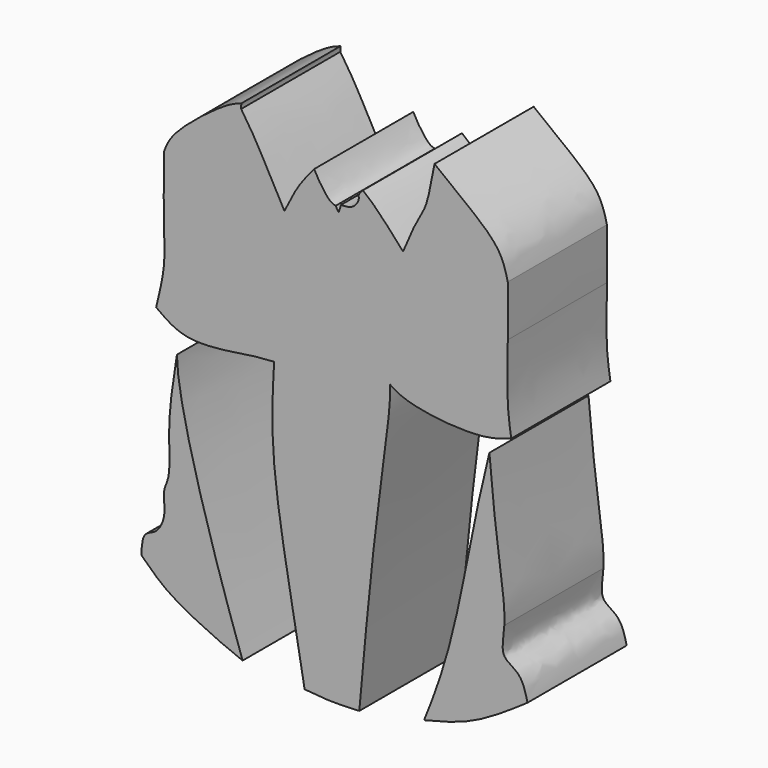
from build123d import *

# Parameters (mm, degrees)
F1_DEPTH = 6.604


with BuildPart() as f1:
    # F0 (on Front) → F1 (new body)
    with BuildSketch(Plane.XZ):
        with BuildLine():
            add(Edge.make_bspline(
                [(1.1497032875, -23.3825250299), (1.196561232, -23.482640341), (1.2503133009, -23.5679166675), (1.3041357743, -23.6533004791)],
                knots=[0.9300041209, 0.9300041209, 0.9300041209, 0.9300041209, 1, 1, 1, 1], degree=3))
            add(Edge.make_bspline(
                [(0, -22.0348257571), (0.0812285979, -22.1912839001), (0.2631810605, -22.5423085387), (0.8188425061, -23.3060281912), (1.0602767296, -23.3623532218), (1.1497032875, -23.3825250299)],
                knots=[0, 0, 0, 0, 0.3369494365, 0.7561140095, 1, 1, 1, 1], degree=3))
            add(Edge.make_bspline(
                [(-1.5849161427, -24.5154779404), (-1.345206038, -24.0256383181), (-0.884584287, -23.0843730979), (-0.2867283861, -22.3750251249), (0, -22.0348257571)],
                knots=[0, 0, 0, 0, 0.5204055264, 1, 1, 1, 1], degree=3))
            add(Edge.make_bspline(
                [(-3.8910638541, -20.4827003181), (-3.6505175345, -20.8468328503), (-3.1674718148, -21.5780544355), (-2.5515288628, -22.7451588248), (-1.9298877508, -23.8836738897), (-1.5849161427, -24.5154779404)],
                knots=[0, 0, 0, 0, 0.3062678611, 0.6150224191, 1, 1, 1, 1], degree=3))
            add(Edge.make_bspline(
                [(-3.8755044345, -20.2104461632), (-3.8944603794, -20.30795767), (-3.8927621167, -20.3953289941), (-3.8910638541, -20.4827003181)],
                knots=[0.8433644561, 0.8433644561, 0.8433644561, 0.8433644561, 1, 1, 1, 1], degree=3))
            add(Edge.make_bspline(
                [(-3.8755044345, -20.2104461632), (-4.1044836782, -20.2897716629), (-4.7764963733, -20.5224047591), (-7.5966979576, -22.691586935), (-7.8942564645, -23.5186829688), (-8.0032804981, -23.8217506558)],
                knots=[0, 0, 0, 0, 0.2467581374, 0.7239895384, 1, 1, 1, 1], degree=3))
            add(Edge.make_bspline(
                [(-8.0032804981, -23.8217506558), (-8.0161008013, -25.0803462224), (-8.0289211045, -26.3389417891), (-8.0032804981, -27.2946506739)],
                knots=[0, 0, 0, 0, 0.3971402404, 0.3971402404, 0.3971402404, 0.3971402404], degree=3))
            add(Edge.make_bspline(
                [(-8.0032804981, -27.2946506739), (-7.9846598182, -27.9887040412), (-7.9033379715, -29.1055696173), (-8.2433465749, -30.5234976757), (-8.4206936881, -31.2630832195)],
                knots=[0.3971402404, 0.3971402404, 0.3971402404, 0.3971402404, 0.6855507862, 1, 1, 1, 1], degree=3))
            add(Edge.make_bspline(
                [(-8.4206936881, -31.2630832195), (-8.0707479073, -31.5229253729), (-7.7208021265, -31.7827675263), (-7.280498254, -31.9563828779)],
                knots=[0, 0, 0, 0, 0.2264662718, 0.2264662718, 0.2264662718, 0.2264662718], degree=3))
            add(Edge.make_bspline(
                [(-7.280498254, -31.9563828779), (-7.087001058, -32.0326803756), (-5.9748657581, -32.3471325273), (-3.3059866082, -31.8284608794), (-2.4493561435, -31.7871199179), (-2.1330976353, -31.7718572915)],
                knots=[0.2264662718, 0.2264662718, 0.2264662718, 0.2264662718, 0.3259897858, 0.7511628717, 1, 1, 1, 1], degree=3))
            add(Edge.make_bspline(
                [(-2.1330976353, -31.7718572915), (-2.2152386976, -33.2202060273), (-2.404694986, -36.5607858579), (-1.086099516, -43.2058424148), (-0.6236220742, -46.0203927281), (-0.5086617392, -46.6130788646)],
                knots=[0, 0, 0, 0, 0.2604019918, 0.6006106265, 0.706181104, 0.706181104, 0.706181104, 0.706181104], degree=3))
            add(Edge.make_bspline(
                [(-0.5086617392, -46.6130788646), (-0.054032576, -46.6595245839), (0.8828265858, -46.7535402431), (1.8873066503, -46.7039721098), (2.4071369795, -46.6789720867)],
                knots=[0, 0, 0, 0, 0.4877338937, 1, 1, 1, 1], degree=3))
            add(Edge.make_bspline(
                [(4.0371152572, -30.8283232152), (4.0498449975, -31.0367026744), (4.0973883752, -31.822476947), (3.2058039921, -37.8111831479), (2.6809233611, -43.5650242157), (2.4071369795, -46.6789720867)],
                knots=[0, 0, 0, 0, 0.1368819039, 0.5084777049, 0.9418583296, 0.9418583296, 0.9418583296, 0.9418583296], degree=3))
            Line((4.0371152572, -30.8283232152), (4.0371152572, -30.8240728969))
            add(Edge.make_bspline(
                [(4.0371152572, -30.8240728969), (4.2589618279, -30.9802818339), (5.1811653861, -31.5199314213), (8.0797833825, -31.7977979949), (9.3025548706, -31.6116050516), (9.5219962154, -31.5644456762)],
                knots=[0.0837609161, 0.0837609161, 0.0837609161, 0.0837609161, 0.2597027552, 0.7013911773, 0.8114710435, 0.8114710435, 0.8114710435, 0.8114710435], degree=3))
            add(Edge.make_bspline(
                [(9.5219962154, -31.5644456762), (9.8978237774, -31.4836778834), (10.2017699607, -31.3735395299), (10.5056809261, -31.2630832195)],
                knots=[0.8114710435, 0.8114710435, 0.8114710435, 0.8114710435, 1, 1, 1, 1], degree=3))
            add(Edge.make_bspline(
                [(10.3195011616, -26.6950372607), (10.3066542553, -27.7065685869), (10.2494190203, -29.633979984), (10.4294326417, -30.7783590992), (10.5056809261, -31.2630832195)],
                knots=[0.3554197548, 0.3554197548, 0.3554197548, 0.3554197548, 0.7269754506, 1, 1, 1, 1], degree=3))
            add(Edge.make_bspline(
                [(10.3195011616, -23.9742975682), (10.3256456566, -24.85086617), (10.3317901517, -25.7274347717), (10.3195011616, -26.6950372607)],
                knots=[0, 0, 0, 0, 0.3554197548, 0.3554197548, 0.3554197548, 0.3554197548], degree=3))
            add(Edge.make_bspline(
                [(6.4166993834, -19.7054333985), (6.8364474582, -20.0393778353), (7.7694911507, -20.7816915448), (9.935813667, -22.397975898), (10.2033102199, -23.4969447699), (10.3195011616, -23.9742975682)],
                knots=[0, 0, 0, 0, 0.3162623511, 0.7030088036, 1, 1, 1, 1], degree=3))
            add(Edge.make_bspline(
                [(4.7377212904, -24.3642199785), (5.0125045057, -23.7142148821), (5.4828901449, -22.6015084073), (6.0299034698, -21.8474010812), (6.2844083992, -20.2859091691), (6.3800357867, -19.8663085307), (6.4166993834, -19.7054333985)],
                knots=[0, 0, 0, 0, 0.3165942296, 0.5419595187, 0.8243870093, 1, 1, 1, 1], degree=3))
            add(Edge.make_bspline(
                [(2.5988076228, -22.189414897), (2.7361246365, -22.295582924), (3.3578125101, -22.8085256738), (4.1367803168, -23.6867158312), (4.7377212904, -24.3642199785)],
                knots=[0.2395642068, 0.2395642068, 0.2395642068, 0.2395642068, 0.4133489808, 1, 1, 1, 1], degree=3))
            add(Edge.make_bspline(
                [(1.4297665819, -23.2515854994), (1.6534331143, -23.2464180484), (2.088646245, -23.2390077858), (2.4357932634, -22.6803101913), (2.3252870905, -22.463073339), (2.4994670561, -22.2887120699), (2.5988076228, -22.189414897)],
                knots=[0, 0, 0, 0, 0.3097586197, 0.5971540451, 0.7683900023, 1, 1, 1, 1], degree=3))
            add(Edge.make_bspline(
                [(1.4297665819, -23.2515854994), (1.3796401747, -23.3870862304), (1.3419128982, -23.5201049192), (1.3041357743, -23.6533004791)],
                knots=[0.9282044138, 0.9282044138, 0.9282044138, 0.9282044138, 1, 1, 1, 1], degree=3))
        make_face()
    extrude(amount=F1_DEPTH)


with BuildPart() as f1b:
    # F0 (on Front) → F1, piece 2 (new body)
    with BuildSketch(Plane.XZ):
        with BuildLine():
            add(Edge.make_bspline(
                [(10.1339444518, -40.154248476), (10.0996639819, -40.7595654129), (9.8411530369, -41.6907227375), (11.0543259011, -42.0915419673), (11.2624864317, -42.9296879458), (11.3736968488, -43.3776080608)],
                knots=[0.5446663302, 0.5446663302, 0.5446663302, 0.5446663302, 0.7089961818, 0.8444214804, 1, 1, 1, 1], degree=3))
            add(Edge.make_bspline(
                [(9.3393335359, -32.3106409743), (9.4767181896, -33.8676215858), (9.7579545685, -36.7487762852), (10.1860978484, -39.2333353621), (10.1339444518, -40.154248476)],
                knots=[0, 0, 0, 0, 0.2946592576, 0.5446663302, 0.5446663302, 0.5446663302, 0.5446663302], degree=3))
            add(Edge.make_bspline(
                [(9.3393335359, -32.3106409743), (9.0872733652, -33.3458491846), (8.4262549778, -36.1480824729), (7.451926237, -41.7759811318), (6.288470048, -44.9337334805), (5.8590061813, -45.9915856041)],
                knots=[0.0560073572, 0.0560073572, 0.0560073572, 0.0560073572, 0.2875945583, 0.6587580201, 0.8573744911, 0.8573744911, 0.8573744911, 0.8573744911], degree=3))
            add(Edge.make_bspline(
                [(5.8590061813, -45.9915856041), (6.7100418746, -45.7820195896), (8.5255268002, -45.3337985815), (10.3852467136, -44.0566964405), (11.3736968488, -43.3776080608)],
                knots=[0, 0, 0, 0, 0.4684525518, 1, 1, 1, 1], degree=3))
        make_face()
    extrude(amount=F1_DEPTH)


with BuildPart() as f1c:
    # F0 (on Front) → F1, piece 3 (new body)
    with BuildSketch(Plane.XZ):
        with BuildLine():
            add(Edge.make_bspline(
                [(-7.9977270216, -39.7629626095), (-8.0353307006, -40.0740104755), (-7.8475440667, -40.9081566011), (-8.3276784339, -41.7721797654), (-8.6865222436, -41.9133952547), (-8.7804137356, -41.9576022874)],
                knots=[0.5630225378, 0.5630225378, 0.5630225378, 0.5630225378, 0.6829954373, 0.7971342168, 0.8427017499, 0.8427017499, 0.8427017499, 0.8427017499], degree=3))
            add(Edge.make_bspline(
                [(-8.7804137356, -41.9576022874), (-8.8665040184, -41.9981362684), (-9.1637303886, -42.1631307164), (-9.1916198941, -42.7308055441), (-9.2121018097, -43.1477054954)],
                knots=[0.8427017499, 0.8427017499, 0.8427017499, 0.8427017499, 0.8844831907, 1, 1, 1, 1], degree=3))
            add(Edge.make_bspline(
                [(-9.2121018097, -43.1477054954), (-8.7804137356, -43.5718730282), (-7.8596034967, -44.4858982699), (-5.5490503509, -45.6196405109), (-4.3826465365, -46.1250309413), (-3.8132368899, -46.3399066668)],
                knots=[0, 0, 0, 0, 0.3164912874, 0.6835755444, 1, 1, 1, 1], degree=3))
            add(Edge.make_bspline(
                [(-7.3158233845, -33.1216985999), (-7.3086622948, -33.427565943), (-7.1773727045, -35.3237923438), (-5.7271713877, -40.6773066803), (-4.3193262788, -44.8829977144), (-3.8132368899, -46.3399066668)],
                knots=[0.1190063712, 0.1190063712, 0.1190063712, 0.1190063712, 0.2028887758, 0.5871633563, 0.7972885103, 0.7972885103, 0.7972885103, 0.7972885103], degree=3))
            add(Edge.make_bspline(
                [(-7.3158233845, -33.1216985999), (-7.4900971647, -34.2370580513), (-7.7847418523, -36.1476930372), (-7.7029307491, -37.6897389964), (-7.7019333382, -39.1092609266), (-7.9681596635, -39.5183891031), (-7.9977270216, -39.7629626095)],
                knots=[0, 0, 0, 0, 0.1981522726, 0.3394131379, 0.4686891701, 0.5630225378, 0.5630225378, 0.5630225378, 0.5630225378], degree=3))
        make_face()
    extrude(amount=F1_DEPTH)


solid = Compound([f1.part, f1b.part, f1c.part])
